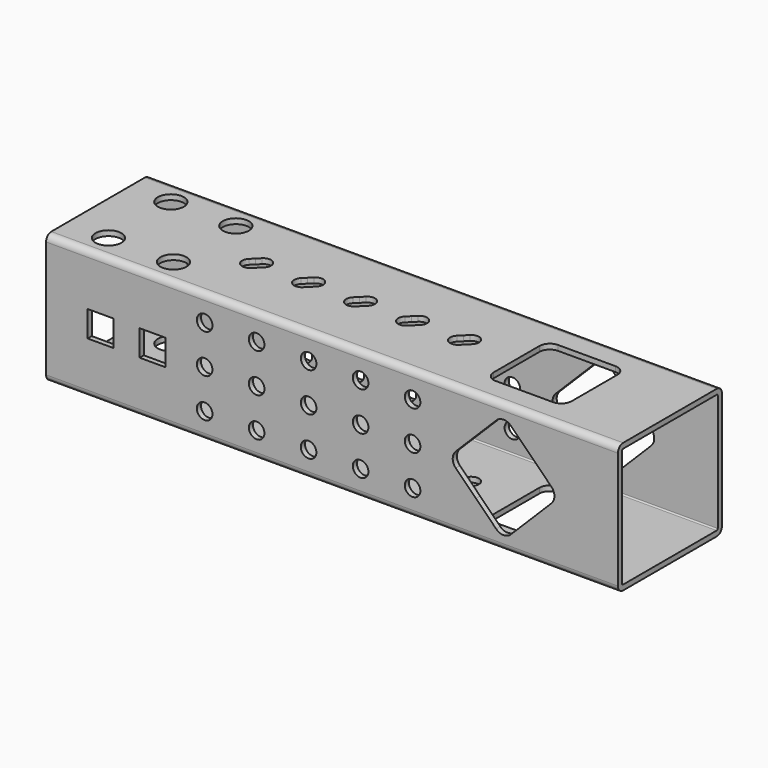
from build123d import *

# Parameters (mm, degrees)
PAD_DEPTH            = 220
SKETCH001_R          = 3
SKETCH001_W          = 10
SKETCH001_H          = 10
POCKET_DEPTH         = 25.001
POCKET_DEPTH_BACK    = 25.001
SKETCH002_R          = 4.999253
SKETCH002_R_2        = 5
POCKET001_DEPTH      = 25.001
POCKET001_DEPTH_BACK = 25.001


with BuildPart() as part:
    # Sketch → Pad (new body)
    with BuildSketch(Plane.YZ):
        with BuildLine():
            ThreePointArc((-22.5, 25), (-24.267767, 24.267767), (-25, 22.5))
            Line((-25, -22.5), (-25, 22.5))
            ThreePointArc((-25, -22.5), (-24.267767, -24.267767), (-22.5, -25))
            Line((22.5, -25), (-22.5, -25))
            ThreePointArc((22.5, -25), (24.267767, -24.267767), (25, -22.5))
            Line((25, 22.5), (25, -22.5))
            ThreePointArc((25, 22.5), (24.267767, 24.267767), (22.5, 25))
            Line((-22.5, 25), (22.5, 25))
        make_face()
        with BuildLine():
            ThreePointArc((-22.5, 23), (-22.853553, 22.853553), (-23, 22.5))
            Line((-23, -22.5), (-23, 22.5))
            ThreePointArc((-23, -22.5), (-22.853553, -22.853553), (-22.5, -23))
            Line((22.5, -23), (-22.5, -23))
            ThreePointArc((22.5, -23), (22.853553, -22.853553), (23, -22.5))
            Line((23, 22.5), (23, -22.5))
            ThreePointArc((23, 22.5), (22.853553, 22.853553), (22.5, 23))
            Line((-22.5, 23), (22.5, 23))
        make_face(mode=Mode.SUBTRACT)
    extrude(amount=PAD_DEPTH)

    # Sketch001 → Pocket (cut, two sides)
    with BuildSketch(Plane.XZ) as pocket_sk:
        with Locations((60.998133, 15)):
            Circle(SKETCH001_R)
        with Locations((60.998133, 0)):
            Circle(SKETCH001_R)
        with Locations((60.998133, -15)):
            Circle(SKETCH001_R)
        with Locations((81.001867, -15)):
            Circle(SKETCH001_R)
        with Locations((81.001867, 0)):
            Circle(SKETCH001_R)
        with Locations((81.001867, 15)):
            Circle(SKETCH001_R)
        with Locations((100.998133, 15)):
            Circle(SKETCH001_R)
        with Locations((100.998133, 0)):
            Circle(SKETCH001_R)
        with Locations((100.998133, -15)):
            Circle(SKETCH001_R)
        with Locations((121.001867, -15)):
            Circle(SKETCH001_R)
        with Locations((121.001867, 0)):
            Circle(SKETCH001_R)
        with Locations((121.001867, 15)):
            Circle(SKETCH001_R)
        with Locations((140.998133, 15)):
            Circle(SKETCH001_R)
        with Locations((140.998133, 0)):
            Circle(SKETCH001_R)
        with Locations((140.998133, -15)):
            Circle(SKETCH001_R)
        with Locations((21, 0)):
            Rectangle(SKETCH001_W, SKETCH001_H)
        with Locations((41, 0)):
            Rectangle(SKETCH001_W, SKETCH001_H)
        with BuildLine():
            Line((182.72, -14.495), (186.61, -10.61))
            Line((186.61, -10.61), (194.38, -2.83))
            ThreePointArc((194.38, -2.83), (195.56, 0), (194.38, 2.83))
            Line((194.38, 2.83), (186.61, 10.61))
            Line((186.61, 10.61), (178.83, 18.38))
            ThreePointArc((178.83, 18.38), (176, 19.56), (173.17, 18.38))
            Line((173.17, 18.38), (165.39, 10.61))
            Line((165.39, 10.61), (157.61, 2.83))
            ThreePointArc((157.61, 2.83), (156.440003, -0.002076), (157.62, -2.83))
            Line((157.62, -2.83), (165.39, -10.61))
            Line((165.39, -10.61), (173.17, -18.39))
            ThreePointArc((173.17, -18.39), (176.002076, -19.559997), (178.83, -18.38))
            Line((178.83, -18.38), (182.72, -14.495))
        make_face()
    extrude(amount=-POCKET_DEPTH, mode=Mode.SUBTRACT)
    extrude(pocket_sk.sketch, amount=POCKET_DEPTH_BACK, mode=Mode.SUBTRACT)

    # Sketch002 → Pocket001 (cut, two sides)
    with BuildSketch(Plane.XY) as pocket001_sk:
        with Locations((41, 15)):
            Circle(SKETCH002_R)
        with Locations((16, 15)):
            Circle(SKETCH002_R_2)
        with Locations((16, -15)):
            Circle(SKETCH002_R_2)
        with Locations((41, -15)):
            Circle(SKETCH002_R)
        with BuildLine():
            Line((63.12, -2.12), (64.54, -0.71))
            ThreePointArc((64.54, -0.71), (64.54, 3.54), (60.29, 3.54))
            Line((60.29, 3.54), (58.88, 2.12))
            Line((58.88, 2.12), (57.46, 0.71))
            ThreePointArc((57.46, 0.71), (57.46, -3.54), (61.71, -3.54))
            Line((61.71, -3.54), (63.12, -2.12))
        make_face()
        with BuildLine():
            Line((83.12, -2.12), (84.54, -0.71))
            ThreePointArc((84.54, -0.71), (84.54, 3.54), (80.29, 3.54))
            Line((80.29, 3.54), (78.88, 2.12))
            Line((78.88, 2.12), (77.46, 0.71))
            ThreePointArc((77.46, 0.71), (77.46, -3.54), (81.71, -3.54))
            Line((81.71, -3.54), (83.12, -2.12))
        make_face()
        with BuildLine():
            Line((103.12, -2.12), (104.54, -0.71))
            ThreePointArc((104.54, -0.71), (104.54, 3.54), (100.29, 3.54))
            Line((100.29, 3.54), (98.88, 2.12))
            Line((98.88, 2.12), (97.46, 0.71))
            ThreePointArc((97.46, 0.71), (97.46, -3.54), (101.71, -3.54))
            Line((101.71, -3.54), (103.12, -2.12))
        make_face()
        with BuildLine():
            Line((123.12, -2.12), (124.54, -0.71))
            ThreePointArc((124.54, -0.71), (124.54, 3.54), (120.29, 3.54))
            Line((120.29, 3.54), (118.88, 2.12))
            Line((118.88, 2.12), (117.46, 0.71))
            ThreePointArc((117.46, 0.71), (117.46, -3.54), (121.71, -3.54))
            Line((121.71, -3.54), (123.12, -2.12))
        make_face()
        with BuildLine():
            Line((143.12, -2.12), (144.54, -0.71))
            ThreePointArc((144.54, -0.71), (144.54, 3.54), (140.29, 3.54))
            Line((140.29, 3.54), (138.88, 2.12))
            Line((138.88, 2.12), (137.46, 0.71))
            ThreePointArc((137.46, 0.71), (137.46, -3.54), (141.71, -3.54))
            Line((141.71, -3.54), (143.12, -2.12))
        make_face()
        with BuildLine():
            Line((161, 5.5), (161, 11))
            ThreePointArc((165, 15), (162.17, 13.83), (161, 11))
            Line((165, 15), (187, 15))
            ThreePointArc((191, 11), (189.83, 13.83), (187, 15))
            Line((191, 11), (191, -11))
            ThreePointArc((187, -15), (189.83, -13.83), (191, -11))
            Line((187, -15), (176, -15))
            Line((176, -15), (165, -15))
            ThreePointArc((161, -11), (162.17, -13.83), (165, -15))
            Line((161, -11), (161, 0))
            Line((161, 0), (161, 5.5))
        make_face()
    extrude(amount=-POCKET001_DEPTH, mode=Mode.SUBTRACT)
    extrude(pocket001_sk.sketch, amount=POCKET001_DEPTH_BACK, mode=Mode.SUBTRACT)


solid = part.part
